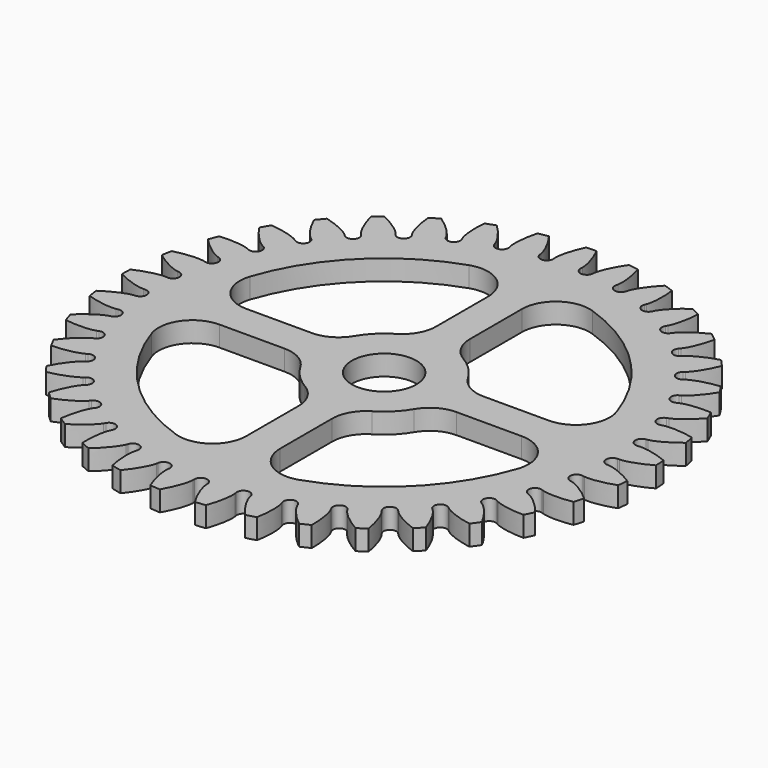
from build123d import *

# Parameters (mm, degrees)
F4_DEPTH  = 6
F6_DEPTH  = 6
F3_R      = 39
F7_DEPTH  = 3
F8_COUNT  = 37
F11_DEPTH = 25
F12_DEPTH = 6
F13_R     = 5
F14_COUNT = 4


with BuildPart() as f4:
    # F2 (on Top) → F4 (new body)
    with BuildSketch(Plane.XY):
        with BuildLine():
            ThreePointArc((38.8306021709, -3.6310239665), (38.9576275244, -1.8174866347), (39, 0))
            ThreePointArc((39, 0), (38.9928994183, 0.7441740105), (38.9716002586, 1.488077043))
            add(Edge.make_bspline(
                [(34.7686269691, 0), (34.8180806531, 0.0017598191), (34.7939135223, 5.13874e-05), (34.9900936029, 0.0139198213), (35.2147634453, 0.0459739362), (35.5620109652, 0.1104808259), (35.9933804339, 0.2168409034), (36.511214295, 0.3721584722), (37.1337452755, 0.6003170907), (37.7450401218, 0.85048968), (38.7222942725, 1.3408326365), (38.5913591757, 1.2751351899), (38.9716002586, 1.488077043)],
                knots=[0, 0, 0, 0, 0.0334554769, 0.0914010445, 0.1662083453, 0.2547215031, 0.3550859741, 0.4660430628, 0.5866661297, 0.7162360844, 0.854173832, 0.969774515, 0.969774515, 0.969774515, 0.969774515], degree=3))
            Line((34.7686269691, 0), (34.5, 0))
            ThreePointArc((34.5, 0), (34.4869208017, -0.9498913723), (34.4476931235, -1.8990625232))
            Line((34.4476931235, -1.8990625232), (34.7159128162, -1.9138491727))
            add(Edge.make_bspline(
                [(34.7159128162, -1.9138491727), (34.7651946516, -1.9183285161), (34.7411582028, -1.915292388), (34.9362774546, -1.9399385848), (35.1588422378, -1.9843111179), (35.5020124808, -2.0678345467), (35.9268733111, -2.1977782249), (36.4353725621, -2.3813646257), (37.0444006403, -2.6434447222), (37.6409978543, -2.9268869169), (38.5897792791, -3.4702796829), (38.4626590335, -3.3974744823), (38.8306021709, -3.6310239665)],
                knots=[0, 0, 0, 0, 0.0334554769, 0.0914010445, 0.1662083453, 0.2547215031, 0.3550859741, 0.4660430628, 0.5866661297, 0.7162360844, 0.854173832, 0.969774515, 0.969774515, 0.969774515, 0.969774515], degree=3))
        make_face()
    extrude(amount=F4_DEPTH)

    # F5 (on face) → F6 (join)
    with BuildSketch(Plane(origin=(0, 0, 0), x_dir=(1, 0, 0), z_dir=(0, 0, -1))):
        with BuildLine():
            ThreePointArc((34.5, 0), (34.4869208017, 0.9498913723), (34.4476931235, 1.8990625232))
            ThreePointArc((34.4476931235, 1.8990625232), (33.5372995337, 0.9237354549), (34.5, 0))
        make_face()
    extrude(amount=-F6_DEPTH)


with BuildPart() as f7:
    # F3 (on Top) → F7 (new body)
    with BuildSketch(Plane.XY):
        Circle(F3_R)
    extrude(amount=F7_DEPTH)


with BuildPart() as f8_1:
    # F8: instance of F4
    add(f4.part.rotate(Axis((0, 0, 3), (0, 0, 1)), 1 * 360 / F8_COUNT))


with BuildPart() as f8_2:
    # F8: instance of F4
    add(f4.part.rotate(Axis((0, 0, 3), (0, 0, 1)), 2 * 360 / F8_COUNT))


with BuildPart() as f8_3:
    # F8: instance of F4
    add(f4.part.rotate(Axis((0, 0, 3), (0, 0, 1)), 3 * 360 / F8_COUNT))


with BuildPart() as f8_4:
    # F8: instance of F4
    add(f4.part.rotate(Axis((0, 0, 3), (0, 0, 1)), 4 * 360 / F8_COUNT))


with BuildPart() as f8_5:
    # F8: instance of F4
    add(f4.part.rotate(Axis((0, 0, 3), (0, 0, 1)), 5 * 360 / F8_COUNT))


with BuildPart() as f8_6:
    # F8: instance of F4
    add(f4.part.rotate(Axis((0, 0, 3), (0, 0, 1)), 6 * 360 / F8_COUNT))


with BuildPart() as f8_7:
    # F8: instance of F4
    add(f4.part.rotate(Axis((0, 0, 3), (0, 0, 1)), 7 * 360 / F8_COUNT))


with BuildPart() as f8_8:
    # F8: instance of F4
    add(f4.part.rotate(Axis((0, 0, 3), (0, 0, 1)), 8 * 360 / F8_COUNT))


with BuildPart() as f8_9:
    # F8: instance of F4
    add(f4.part.rotate(Axis((0, 0, 3), (0, 0, 1)), 9 * 360 / F8_COUNT))


with BuildPart() as f8_10:
    # F8: instance of F4
    add(f4.part.rotate(Axis((0, 0, 3), (0, 0, 1)), 10 * 360 / F8_COUNT))


with BuildPart() as f8_11:
    # F8: instance of F4
    add(f4.part.rotate(Axis((0, 0, 3), (0, 0, 1)), 11 * 360 / F8_COUNT))


with BuildPart() as f8_12:
    # F8: instance of F4
    add(f4.part.rotate(Axis((0, 0, 3), (0, 0, 1)), 12 * 360 / F8_COUNT))


with BuildPart() as f8_13:
    # F8: instance of F4
    add(f4.part.rotate(Axis((0, 0, 3), (0, 0, 1)), 13 * 360 / F8_COUNT))


with BuildPart() as f8_14:
    # F8: instance of F4
    add(f4.part.rotate(Axis((0, 0, 3), (0, 0, 1)), 14 * 360 / F8_COUNT))


with BuildPart() as f8_15:
    # F8: instance of F4
    add(f4.part.rotate(Axis((0, 0, 3), (0, 0, 1)), 15 * 360 / F8_COUNT))


with BuildPart() as f8_16:
    # F8: instance of F4
    add(f4.part.rotate(Axis((0, 0, 3), (0, 0, 1)), 16 * 360 / F8_COUNT))


with BuildPart() as f8_17:
    # F8: instance of F4
    add(f4.part.rotate(Axis((0, 0, 3), (0, 0, 1)), 17 * 360 / F8_COUNT))


with BuildPart() as f8_18:
    # F8: instance of F4
    add(f4.part.rotate(Axis((0, 0, 3), (0, 0, 1)), 18 * 360 / F8_COUNT))


with BuildPart() as f8_19:
    # F8: instance of F4
    add(f4.part.rotate(Axis((0, 0, 3), (0, 0, 1)), 19 * 360 / F8_COUNT))


with BuildPart() as f8_20:
    # F8: instance of F4
    add(f4.part.rotate(Axis((0, 0, 3), (0, 0, 1)), 20 * 360 / F8_COUNT))


with BuildPart() as f8_21:
    # F8: instance of F4
    add(f4.part.rotate(Axis((0, 0, 3), (0, 0, 1)), 21 * 360 / F8_COUNT))


with BuildPart() as f8_22:
    # F8: instance of F4
    add(f4.part.rotate(Axis((0, 0, 3), (0, 0, 1)), 22 * 360 / F8_COUNT))


with BuildPart() as f8_23:
    # F8: instance of F4
    add(f4.part.rotate(Axis((0, 0, 3), (0, 0, 1)), 23 * 360 / F8_COUNT))


with BuildPart() as f8_24:
    # F8: instance of F4
    add(f4.part.rotate(Axis((0, 0, 3), (0, 0, 1)), 24 * 360 / F8_COUNT))


with BuildPart() as f8_25:
    # F8: instance of F4
    add(f4.part.rotate(Axis((0, 0, 3), (0, 0, 1)), 25 * 360 / F8_COUNT))


with BuildPart() as f8_26:
    # F8: instance of F4
    add(f4.part.rotate(Axis((0, 0, 3), (0, 0, 1)), 26 * 360 / F8_COUNT))


with BuildPart() as f8_27:
    # F8: instance of F4
    add(f4.part.rotate(Axis((0, 0, 3), (0, 0, 1)), 27 * 360 / F8_COUNT))


with BuildPart() as f8_28:
    # F8: instance of F4
    add(f4.part.rotate(Axis((0, 0, 3), (0, 0, 1)), 28 * 360 / F8_COUNT))


with BuildPart() as f8_29:
    # F8: instance of F4
    add(f4.part.rotate(Axis((0, 0, 3), (0, 0, 1)), 29 * 360 / F8_COUNT))


with BuildPart() as f8_30:
    # F8: instance of F4
    add(f4.part.rotate(Axis((0, 0, 3), (0, 0, 1)), 30 * 360 / F8_COUNT))


with BuildPart() as f8_31:
    # F8: instance of F4
    add(f4.part.rotate(Axis((0, 0, 3), (0, 0, 1)), 31 * 360 / F8_COUNT))


with BuildPart() as f8_32:
    # F8: instance of F4
    add(f4.part.rotate(Axis((0, 0, 3), (0, 0, 1)), 32 * 360 / F8_COUNT))


with BuildPart() as f8_33:
    # F8: instance of F4
    add(f4.part.rotate(Axis((0, 0, 3), (0, 0, 1)), 33 * 360 / F8_COUNT))


with BuildPart() as f8_34:
    # F8: instance of F4
    add(f4.part.rotate(Axis((0, 0, 3), (0, 0, 1)), 34 * 360 / F8_COUNT))


with BuildPart() as f8_35:
    # F8: instance of F4
    add(f4.part.rotate(Axis((0, 0, 3), (0, 0, 1)), 35 * 360 / F8_COUNT))


with BuildPart() as f8_36:
    # F8: instance of F4
    add(f4.part.rotate(Axis((0, 0, 3), (0, 0, 1)), 36 * 360 / F8_COUNT))


with BuildPart() as f7_1:
    add(f7.part)

    # F9: cut F8_5, F8_6, F8_7, F8_8, F8_9, F8_10, F8_11, F8_12, F8_13, F8_14, F8_15, F8_16, F8_17, F8_18, F8_19, F8_20, F8_21, F8_22, F8_23, F8_24, F8_25, F8_26, F8_27, F8_28, F8_29, F4, F8_1, F8_2, F8_3, F8_4, F8_30, F8_31, F8_32, F8_33, F8_34, F8_35, F8_36
    add(f8_5.part, mode=Mode.SUBTRACT)
    add(f8_6.part, mode=Mode.SUBTRACT)
    add(f8_7.part, mode=Mode.SUBTRACT)
    add(f8_8.part, mode=Mode.SUBTRACT)
    add(f8_9.part, mode=Mode.SUBTRACT)
    add(f8_10.part, mode=Mode.SUBTRACT)
    add(f8_11.part, mode=Mode.SUBTRACT)
    add(f8_12.part, mode=Mode.SUBTRACT)
    add(f8_13.part, mode=Mode.SUBTRACT)
    add(f8_14.part, mode=Mode.SUBTRACT)
    add(f8_15.part, mode=Mode.SUBTRACT)
    add(f8_16.part, mode=Mode.SUBTRACT)
    add(f8_17.part, mode=Mode.SUBTRACT)
    add(f8_18.part, mode=Mode.SUBTRACT)
    add(f8_19.part, mode=Mode.SUBTRACT)
    add(f8_20.part, mode=Mode.SUBTRACT)
    add(f8_21.part, mode=Mode.SUBTRACT)
    add(f8_22.part, mode=Mode.SUBTRACT)
    add(f8_23.part, mode=Mode.SUBTRACT)
    add(f8_24.part, mode=Mode.SUBTRACT)
    add(f8_25.part, mode=Mode.SUBTRACT)
    add(f8_26.part, mode=Mode.SUBTRACT)
    add(f8_27.part, mode=Mode.SUBTRACT)
    add(f8_28.part, mode=Mode.SUBTRACT)
    add(f8_29.part, mode=Mode.SUBTRACT)
    add(f4.part, mode=Mode.SUBTRACT)
    add(f8_1.part, mode=Mode.SUBTRACT)
    add(f8_2.part, mode=Mode.SUBTRACT)
    add(f8_3.part, mode=Mode.SUBTRACT)
    add(f8_4.part, mode=Mode.SUBTRACT)
    add(f8_30.part, mode=Mode.SUBTRACT)
    add(f8_31.part, mode=Mode.SUBTRACT)
    add(f8_32.part, mode=Mode.SUBTRACT)
    add(f8_33.part, mode=Mode.SUBTRACT)
    add(f8_34.part, mode=Mode.SUBTRACT)
    add(f8_35.part, mode=Mode.SUBTRACT)
    add(f8_36.part, mode=Mode.SUBTRACT)

    # F10 (on face) → F11 (cut)
    with BuildSketch(Plane(origin=(0, 0, 0), x_dir=(1, 0, 0), z_dir=(0, 0, -1))):
        with BuildLine():
            Line((2.5, 2.5), (4.0535671019, 2.5))
            ThreePointArc((4.0535671019, 2.5), (3.3675960454, 3.3675960454), (2.5, 4.0535671019))
            Line((2.5, 4.0535671019), (2.5, 2.5))
        make_face()
        with BuildLine():
            ThreePointArc((2.5, 4.0535671019), (-4.1585848705, -2.3211157069), (4.7625, 0))
            ThreePointArc((4.7625, 0), (4.5818402184, 1.2992869058), (4.0535671019, 2.5))
            Line((4.0535671019, 2.5), (2.5, 2.5))
            Line((2.5, 2.5), (2.5, 4.0535671019))
        make_face()
    extrude(amount=-F11_DEPTH, mode=Mode.SUBTRACT)


with BuildPart() as f12:
    # F10 (on face) → F12 (new body)
    with BuildSketch(Plane(origin=(0, 0, 0), x_dir=(1, 0, 0), z_dir=(0, 0, -1))):
        with BuildLine():
            ThreePointArc((2.5, 9.4369701838), (6.9031299513, 6.9031299513), (9.4369701838, 2.5))
            Line((9.4369701838, 2.5), (28.4403509355, 2.5))
            ThreePointArc((28.4403509355, 2.5), (20.1879117461, 20.1879117461), (2.5, 28.4403509355))
            Line((2.5, 28.4403509355), (2.5, 9.4369701838))
        make_face()
    extrude(amount=-F12_DEPTH)

    # F13
    f13_edges = [f12.edges().sort_by_distance(p)[0] for p in [
        (2.5, -28.440351, 3),
        (2.5, -9.43697, 3),
        (9.43697, -2.5, 3),
        (28.440351, -2.5, 3),
    ]]
    fillet(f13_edges, radius=F13_R)


with BuildPart() as f14_1:
    # F14: instance of F12
    add(f12.part.rotate(Axis((0, 0, 3), (0, 0, -1)), 1 * 360 / F14_COUNT))


with BuildPart() as f14_2:
    # F14: instance of F12
    add(f12.part.rotate(Axis((0, 0, 3), (0, 0, -1)), 2 * 360 / F14_COUNT))


with BuildPart() as f14_3:
    # F14: instance of F12
    add(f12.part.rotate(Axis((0, 0, 3), (0, 0, -1)), 3 * 360 / F14_COUNT))


with BuildPart() as f7_2:
    add(f7_1.part)

    # F15: cut F14_2, F14_1, F12, F14_3
    add(f14_2.part, mode=Mode.SUBTRACT)
    add(f14_1.part, mode=Mode.SUBTRACT)
    add(f12.part, mode=Mode.SUBTRACT)
    add(f14_3.part, mode=Mode.SUBTRACT)


solid = f7_2.part
